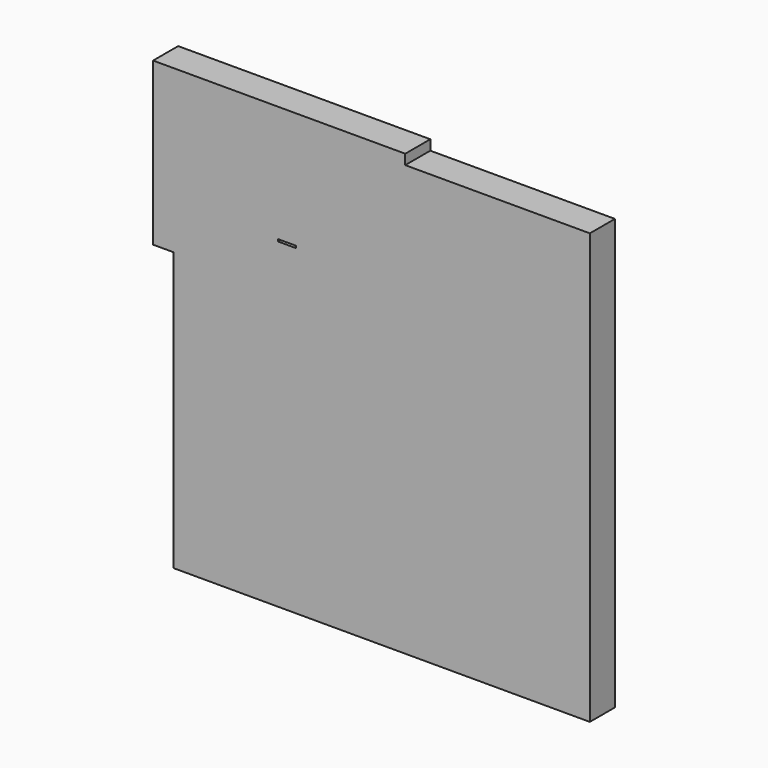
from build123d import *

# Parameters (mm, degrees)
F0_W     = 94.0314047039
F0_H     = 61.6279765964
F0_W_2   = 7.300876081
F0_H_2   = 0.858925283
F1_DEPTH = 25.4
F2_DEPTH = 12.7


with BuildPart() as f1:
    # F0 (on Front) → F1 (new body)
    with BuildSketch(Plane.XZ):
        Polygon((-130.7592019439, -35.8140021563), (38.1000041962, -35.8140021563), (38.1000041962, 138.5316029191), (-36.72779724, 138.5316029191), (-36.72779724, 76.9036263227), (-130.7592019439, 76.9036263227), align=None)
        Polygon((-138.9400362968, 76.9036263227), (-130.7592019439, 76.9036263227), (-130.7592019439, 138.5316029191), (-36.72779724, 138.5316029191), (-36.72779724, 142.6114886999), (-138.9400362968, 142.6114886999), align=None)
        with Locations((-83.7434995919, 107.7176146209)):
            Rectangle(F0_W, F0_H)
        with Locations((-84.6129395068, 94.9410833418)):
            Rectangle(F0_W_2, F0_H_2, mode=Mode.SUBTRACT)
    extrude(amount=F1_DEPTH)

    # F2 (cut, symmetric): a face of the model
    f2_faces = [f1.faces().sort_by_distance(p)[0] for p in [
        (-48.3621229952, -25.4, 53.5114771405),
    ]]
    extrude(f2_faces, amount=F2_DEPTH, both=True, mode=Mode.SUBTRACT)


solid = f1.part
